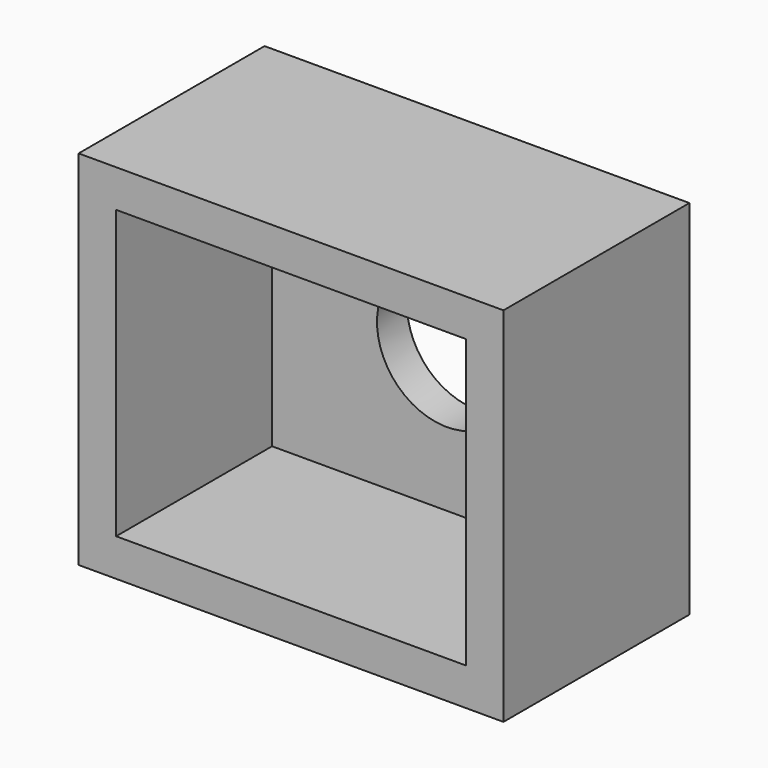
from build123d import *

# Parameters (mm, degrees)
F0_W     = 53.975
F0_H     = 46.0375
F1_DEPTH = 29.5275
F2_T     = -4.7625
F4_D     = 17.78
F4_DEPTH = 25.4


with BuildPart() as f1:
    # F0 (on Front) → F1 (new body)
    with BuildSketch(Plane.XZ):
        with Locations((26.9875, 23.01875)):
            Rectangle(F0_W, F0_H)
    extrude(amount=F1_DEPTH)

    # F2
    f2_openings = [f1.faces().sort_by_distance(p)[0] for p in [
        (26.9875, -29.5275, 23.01875),
    ]]
    offset(amount=F2_T, openings=f2_openings)

    # F4
    with Locations(Plane(origin=(0, 0, 0), x_dir=(-1, 0, 0), z_dir=(0, 1, 0))):
        with Locations((-26.9875, 23.01875)):
            Hole(F4_D / 2, depth=F4_DEPTH)


solid = f1.part
